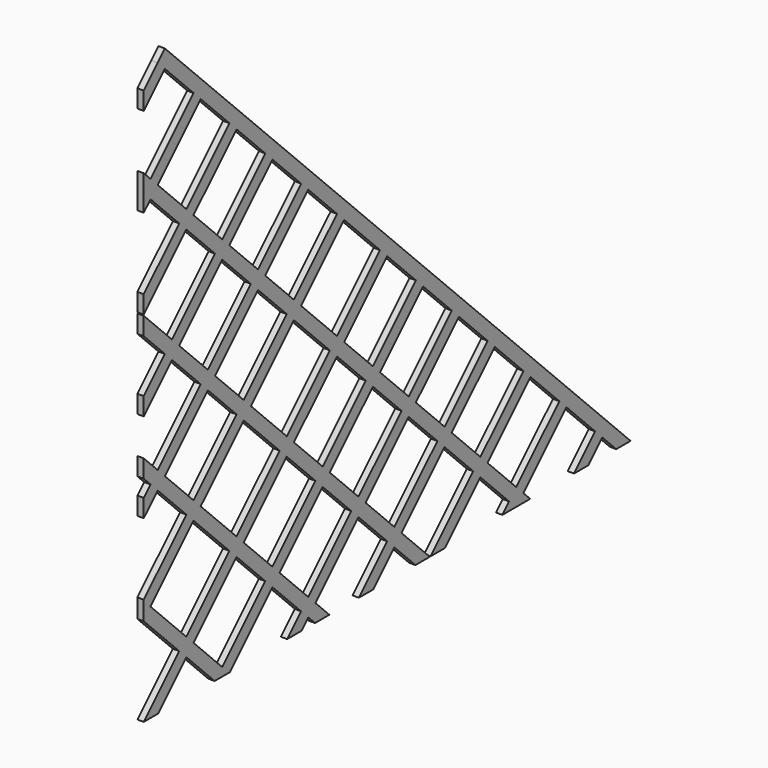
from build123d import *

# Parameters (mm, degrees)
F1_DEPTH = 3.175
F2_DEPTH = 3.175


with BuildPart() as f1:
    # F0 (on Right) → F1 (new body)
    with BuildSketch(Plane.YZ):
        Polygon((0, 278.3879397531), (0, 269.4076836321), (13.2060301234, 282.6137137555), (8.7159020629, 287.103841816), align=None)
        Polygon((13.2060301234, 282.6137137555), (31.1665423656, 264.6532015134), (35.6566704261, 269.1433295739), (17.696158184, 287.103841816), align=None)
        Polygon((8.7159020629, 287.103841816), (13.2060301234, 282.6137137555), (17.696158184, 287.103841816), (13.2060301234, 291.5939698766), align=None)
        Polygon((31.1665423656, 264.6532015134), (35.6566704261, 260.1630734528), (40.1467984866, 264.6532015134), (35.6566704261, 269.1433295739), align=None)
        Polygon((35.6566704261, 260.1630734528), (53.6171826682, 242.2025612107), (58.1073107288, 246.6926892712), (40.1467984866, 264.6532015134), align=None)
        Polygon((4.2257740024, 237.7124331502), (8.7159020629, 233.2223050896), (35.6566704261, 260.1630734528), (31.1665423656, 264.6532015134), align=None)
        Polygon((0, 232.9579510314), (4.2257740024, 228.7321770291), (8.7159020629, 233.2223050896), (4.2257740024, 237.7124331502), (0, 233.4866591478), align=None)
        Polygon((0, 232.9579510314), (0, 224.5064030267), (4.2257740024, 228.7321770291), align=None)
        Polygon((0, 241.9382071525), (0, 233.4866591478), (4.2257740024, 237.7124331502), align=None)
        Polygon((4.2257740024, 228.7321770291), (22.1862862445, 210.7716647869), (26.676414305, 215.2617928475), (8.7159020629, 233.2223050896), align=None)
        Polygon((53.6171826682, 242.2025612107), (58.1073107288, 237.7124331502), (62.5974387893, 242.2025612107), (58.1073107288, 246.6926892712), align=None)
        Polygon((58.1073107288, 237.7124331502), (76.0678229709, 219.751920908), (80.5579510314, 224.2420489686), (62.5974387893, 242.2025612107), align=None)
        Polygon((26.676414305, 215.2617928475), (31.1665423656, 210.7716647869), (58.1073107288, 237.7124331502), (53.6171826682, 242.2025612107), align=None)
        Polygon((22.1862862445, 210.7716647869), (26.676414305, 206.2815367264), (31.1665423656, 210.7716647869), (26.676414305, 215.2617928475), align=None)
        Polygon((0, 188.5853785425), (0, 179.6051224214), (26.676414305, 206.2815367264), (22.1862862445, 210.7716647869), align=None)
        Polygon((0, 170.096158184), (13.2060301234, 156.8901280605), (17.696158184, 161.3802561211), (0, 179.076414305), align=None)
        Polygon((26.676414305, 206.2815367264), (44.6369265472, 188.3210244843), (49.1270546077, 192.8111525448), (31.1665423656, 210.7716647869), align=None)
        Polygon((76.0678229709, 219.751920908), (80.5579510314, 215.2617928475), (85.048079092, 219.751920908), (80.5579510314, 224.2420489686), align=None)
        Polygon((49.1270546077, 192.8111525448), (53.6171826682, 188.3210244843), (80.5579510314, 215.2617928475), (76.0678229709, 219.751920908), align=None)
        Polygon((44.6369265472, 188.3210244843), (49.1270546077, 183.8308964237), (53.6171826682, 188.3210244843), (49.1270546077, 192.8111525448), align=None)
        Polygon((17.696158184, 161.3802561211), (22.1862862445, 156.8901280605), (49.1270546077, 183.8308964237), (44.6369265472, 188.3210244843), align=None)
        Polygon((13.2060301234, 156.8901280605), (17.696158184, 152.4), (22.1862862445, 156.8901280605), (17.696158184, 161.3802561211), align=None)
        Polygon((0, 143.6840979371), (0, 134.703841816), (17.696158184, 152.4), (13.2060301234, 156.8901280605), align=None)
        Polygon((80.5579510314, 215.2617928475), (98.5184632736, 197.3012806053), (103.0085913341, 201.7914086659), (85.048079092, 219.751920908), align=None)
        Polygon((49.1270546077, 183.8308964237), (67.0875668498, 165.8703841816), (71.5776949104, 170.3605122421), (53.6171826682, 188.3210244843), align=None)
        Polygon((17.696158184, 152.4), (35.6566704261, 134.4394877579), (40.1467984866, 138.9296158184), (22.1862862445, 156.8901280605), align=None)
        Polygon((0, 107.2343653365), (4.2257740024, 103.0085913341), (8.7159020629, 107.4987193947), (0, 116.2146214575), align=None)
        Polygon((0, 98.7828173318), (0, 89.8025612107), (8.7159020629, 98.5184632736), (4.2257740024, 103.0085913341), align=None)
        Polygon((4.2257740024, 103.0085913341), (8.7159020629, 98.5184632736), (13.2060301234, 103.0085913341), (8.7159020629, 107.4987193947), align=None)
        Polygon((8.7159020629, 107.4987193947), (13.2060301234, 103.0085913341), (40.1467984866, 129.9493596973), (35.6566704261, 134.4394877579), align=None)
        Polygon((35.6566704261, 134.4394877579), (40.1467984866, 129.9493596973), (44.6369265472, 134.4394877579), (40.1467984866, 138.9296158184), align=None)
        Polygon((40.1467984866, 138.9296158184), (44.6369265472, 134.4394877579), (71.5776949104, 161.3802561211), (67.0875668498, 165.8703841816), align=None)
        Polygon((67.0875668498, 165.8703841816), (71.5776949104, 161.3802561211), (76.0678229709, 165.8703841816), (71.5776949104, 170.3605122421), align=None)
        Polygon((71.5776949104, 170.3605122421), (76.0678229709, 165.8703841816), (103.0085913341, 192.8111525448), (98.5184632736, 197.3012806053), align=None)
        Polygon((98.5184632736, 197.3012806053), (103.0085913341, 192.8111525448), (107.4987193947, 197.3012806053), (103.0085913341, 201.7914086659), align=None)
        Polygon((103.0085913341, 192.8111525448), (120.9691035763, 174.8506403027), (125.4592316368, 179.3407683632), (107.4987193947, 197.3012806053), align=None)
        Polygon((71.5776949104, 161.3802561211), (89.5382071525, 143.4197438789), (94.0283352131, 147.9098719395), (76.0678229709, 165.8703841816), align=None)
        Polygon((40.1467984866, 129.9493596973), (58.1073107288, 111.9888474552), (62.5974387893, 116.4789755157), (44.6369265472, 134.4394877579), align=None)
        Polygon((8.7159020629, 98.5184632736), (26.676414305, 80.5579510314), (31.1665423656, 85.048079092), (13.2060301234, 103.0085913341), align=None)
        Polygon((0, 53.3528286101), (0, 44.9012806053), (4.2257740024, 49.1270546077), align=None)
        Polygon((0, 53.3528286101), (4.2257740024, 49.1270546077), (31.1665423656, 76.0678229709), (26.676414305, 80.5579510314), (0, 53.8815367264), align=None)
        Polygon((26.676414305, 80.5579510314), (31.1665423656, 76.0678229709), (35.6566704261, 80.5579510314), (31.1665423656, 85.048079092), align=None)
        Polygon((31.1665423656, 85.048079092), (35.6566704261, 80.5579510314), (62.5974387893, 107.4987193947), (58.1073107288, 111.9888474552), align=None)
        Polygon((58.1073107288, 111.9888474552), (62.5974387893, 107.4987193947), (67.0875668498, 111.9888474552), (62.5974387893, 116.4789755157), align=None)
        Polygon((62.5974387893, 116.4789755157), (67.0875668498, 111.9888474552), (94.0283352131, 138.9296158184), (89.5382071525, 143.4197438789), align=None)
        Polygon((89.5382071525, 143.4197438789), (94.0283352131, 138.9296158184), (98.5184632736, 143.4197438789), (94.0283352131, 147.9098719395), align=None)
        Polygon((94.0283352131, 138.9296158184), (116.4789755157, 116.4789755157), (120.9691035763, 120.9691035763), (98.5184632736, 143.4197438789), align=None)
        Polygon((120.9691035763, 120.9691035763), (116.4789755157, 116.4789755157), (120.9691035763, 111.9888474552), (125.4592316368, 116.4789755157), align=None)
        Polygon((116.4789755157, 116.4789755157), (89.5382071525, 89.5382071525), (94.0283352131, 85.048079092), (120.9691035763, 111.9888474552), align=None)
        Polygon((89.5382071525, 89.5382071525), (85.048079092, 85.048079092), (89.5382071525, 80.5579510314), (94.0283352131, 85.048079092), align=None)
        Polygon((85.048079092, 85.048079092), (58.1073107288, 58.1073107288), (62.5974387893, 53.6171826682), (89.5382071525, 80.5579510314), align=None)
        Polygon((58.1073107288, 58.1073107288), (53.6171826682, 53.6171826682), (58.1073107288, 49.1270546077), (62.5974387893, 53.6171826682), align=None)
        Polygon((53.6171826682, 53.6171826682), (26.676414305, 26.676414305), (31.1665423656, 22.1862862445), (58.1073107288, 49.1270546077), align=None)
        Polygon((26.676414305, 26.676414305), (22.1862862445, 22.1862862445), (26.676414305, 17.696158184), (31.1665423656, 22.1862862445), align=None)
        Polygon((22.1862862445, 22.1862862445), (0, 0), (8.9802561211, 0), (26.676414305, 17.696158184), align=None)
        Polygon((0, 44.372572489), (22.1862862445, 22.1862862445), (26.676414305, 26.676414305), (4.2257740024, 49.1270546077), (0, 44.9012806053), align=None)
        Polygon((31.1665423656, 76.0678229709), (53.6171826682, 53.6171826682), (58.1073107288, 58.1073107288), (35.6566704261, 80.5579510314), align=None)
        Polygon((62.5974387893, 107.4987193947), (85.048079092, 85.048079092), (89.5382071525, 89.5382071525), (67.0875668498, 111.9888474552), align=None)
        Polygon((125.4592316368, 116.4789755157), (120.9691035763, 111.9888474552), (138.9296158184, 94.0283352131), (143.4197438789, 98.5184632736), align=None)
        Polygon((143.4197438789, 98.5184632736), (138.9296158184, 94.0283352131), (143.4197438789, 89.5382071525), (147.9098719395, 94.0283352131), align=None)
        Polygon((147.9098719395, 94.0283352131), (143.4197438789, 89.5382071525), (161.3802561211, 71.5776949104), (165.8703841816, 76.0678229709), align=None)
        Polygon((165.8703841816, 76.0678229709), (161.3802561211, 71.5776949104), (165.8703841816, 67.0875668498), (170.3605122421, 71.5776949104), align=None)
        Polygon((170.3605122421, 71.5776949104), (165.8703841816, 67.0875668498), (183.8308964237, 49.1270546077), (188.3210244843, 53.6171826682), align=None)
        Polygon((188.3210244843, 53.6171826682), (183.8308964237, 49.1270546077), (188.3210244843, 44.6369265472), (192.8111525448, 49.1270546077), align=None)
        Polygon((192.8111525448, 49.1270546077), (188.3210244843, 44.6369265472), (206.2815367264, 26.676414305), (210.7716647869, 31.1665423656), align=None)
        Polygon((215.2617928475, 26.676414305), (210.7716647869, 22.1862862445), (228.7321770291, 4.2257740024), (233.2223050896, 8.7159020629), align=None)
        Polygon((210.7716647869, 31.1665423656), (206.2815367264, 26.676414305), (210.7716647869, 22.1862862445), (215.2617928475, 26.676414305), align=None)
        Polygon((233.2223050896, 8.7159020629), (228.7321770291, 4.2257740024), (232.9579510314, 0), (233.4866591478, 0), (237.7124331502, 4.2257740024), align=None)
        Polygon((237.7124331502, 4.2257740024), (233.4866591478, 0), (241.9382071525, 0), align=None)
        Polygon((228.7321770291, 4.2257740024), (224.5064030267, 0), (232.9579510314, 0), align=None)
        Polygon((206.2815367264, 26.676414305), (179.6051224214, 0), (188.5853785425, 0), (210.7716647869, 22.1862862445), align=None)
        Polygon((161.3802561211, 17.696158184), (156.8901280605, 13.2060301234), (170.096158184, 0), (179.076414305, 0), align=None)
        Polygon((183.8308964237, 49.1270546077), (156.8901280605, 22.1862862445), (161.3802561211, 17.696158184), (188.3210244843, 44.6369265472), align=None)
        Polygon((156.8901280605, 22.1862862445), (152.4, 17.696158184), (156.8901280605, 13.2060301234), (161.3802561211, 17.696158184), align=None)
        Polygon((152.4, 17.696158184), (134.703841816, 0), (143.6840979371, 0), (156.8901280605, 13.2060301234), align=None)
        Polygon((138.9296158184, 40.1467984866), (134.4394877579, 35.6566704261), (152.4, 17.696158184), (156.8901280605, 22.1862862445), align=None)
        Polygon((134.4394877579, 44.6369265472), (129.9493596973, 40.1467984866), (134.4394877579, 35.6566704261), (138.9296158184, 40.1467984866), align=None)
        Polygon((161.3802561211, 71.5776949104), (134.4394877579, 44.6369265472), (138.9296158184, 40.1467984866), (165.8703841816, 67.0875668498), align=None)
        Polygon((129.9493596973, 40.1467984866), (103.0085913341, 13.2060301234), (107.4987193947, 8.7159020629), (134.4394877579, 35.6566704261), align=None)
        Polygon((103.0085913341, 13.2060301234), (98.5184632736, 8.7159020629), (103.0085913341, 4.2257740024), (107.4987193947, 8.7159020629), align=None)
        Polygon((107.4987193947, 8.7159020629), (103.0085913341, 4.2257740024), (107.2343653365, 0), (116.2146214575, 0), align=None)
        Polygon((98.5184632736, 8.7159020629), (89.8025612107, 0), (98.7828173318, 0), (103.0085913341, 4.2257740024), align=None)
        Polygon((94.0283352131, 85.048079092), (89.5382071525, 80.5579510314), (107.4987193947, 62.5974387893), (111.9888474552, 67.0875668498), align=None)
        Polygon((138.9296158184, 94.0283352131), (111.9888474552, 67.0875668498), (116.4789755157, 62.5974387893), (143.4197438789, 89.5382071525), align=None)
        Polygon((111.9888474552, 67.0875668498), (107.4987193947, 62.5974387893), (111.9888474552, 58.1073107288), (116.4789755157, 62.5974387893), align=None)
        Polygon((116.4789755157, 62.5974387893), (111.9888474552, 58.1073107288), (129.9493596973, 40.1467984866), (134.4394877579, 44.6369265472), align=None)
        Polygon((107.4987193947, 62.5974387893), (80.5579510314, 35.6566704261), (85.048079092, 31.1665423656), (111.9888474552, 58.1073107288), align=None)
        Polygon((62.5974387893, 53.6171826682), (58.1073107288, 49.1270546077), (76.0678229709, 31.1665423656), (80.5579510314, 35.6566704261), align=None)
        Polygon((80.5579510314, 35.6566704261), (76.0678229709, 31.1665423656), (80.5579510314, 26.676414305), (85.048079092, 31.1665423656), align=None)
        Polygon((85.048079092, 31.1665423656), (80.5579510314, 26.676414305), (98.5184632736, 8.7159020629), (103.0085913341, 13.2060301234), align=None)
        Polygon((76.0678229709, 31.1665423656), (49.1270546077, 4.2257740024), (53.3528286101, 0), (53.8815367264, 0), (80.5579510314, 26.676414305), align=None)
        Polygon((49.1270546077, 4.2257740024), (44.9012806053, 0), (53.3528286101, 0), align=None)
        Polygon((31.1665423656, 22.1862862445), (26.676414305, 17.696158184), (44.372572489, 0), (44.9012806053, 0), (49.1270546077, 4.2257740024), align=None)
    extrude(amount=F1_DEPTH)

    # F0 (on Right) → F2 (join)
    with BuildSketch(Plane.YZ):
        Polygon((120.9691035763, 174.8506403027), (125.4592316368, 170.3605122421), (129.9493596973, 174.8506403027), (125.4592316368, 179.3407683632), align=None)
        Polygon((125.4592316368, 170.3605122421), (147.9098719395, 147.9098719395), (152.4, 152.4), (129.9493596973, 174.8506403027), align=None)
        Polygon((94.0283352131, 147.9098719395), (98.5184632736, 143.4197438789), (125.4592316368, 170.3605122421), (120.9691035763, 174.8506403027), align=None)
        Polygon((147.9098719395, 147.9098719395), (120.9691035763, 120.9691035763), (125.4592316368, 116.4789755157), (152.4, 143.4197438789), align=None)
        Polygon((152.4, 152.4), (147.9098719395, 147.9098719395), (152.4, 143.4197438789), (156.8901280605, 147.9098719395), align=None)
        Polygon((156.8901280605, 147.9098719395), (152.4, 143.4197438789), (170.3605122421, 125.4592316368), (174.8506403027, 129.9493596973), align=None)
        Polygon((174.8506403027, 129.9493596973), (170.3605122421, 125.4592316368), (174.8506403027, 120.9691035763), (179.3407683632, 125.4592316368), align=None)
        Polygon((170.3605122421, 125.4592316368), (143.4197438789, 98.5184632736), (147.9098719395, 94.0283352131), (174.8506403027, 120.9691035763), align=None)
        Polygon((179.3407683632, 125.4592316368), (174.8506403027, 120.9691035763), (192.8111525448, 103.0085913341), (197.3012806053, 107.4987193947), align=None)
        Polygon((197.3012806053, 107.4987193947), (192.8111525448, 103.0085913341), (197.3012806053, 98.5184632736), (201.7914086659, 103.0085913341), align=None)
        Polygon((192.8111525448, 103.0085913341), (165.8703841816, 76.0678229709), (170.3605122421, 71.5776949104), (197.3012806053, 98.5184632736), align=None)
        Polygon((201.7914086659, 103.0085913341), (197.3012806053, 98.5184632736), (215.2617928475, 80.5579510314), (219.751920908, 85.048079092), align=None)
        Polygon((219.751920908, 85.048079092), (215.2617928475, 80.5579510314), (219.751920908, 76.0678229709), (224.2420489686, 80.5579510314), align=None)
        Polygon((215.2617928475, 80.5579510314), (188.3210244843, 53.6171826682), (192.8111525448, 49.1270546077), (219.751920908, 76.0678229709), align=None)
        Polygon((224.2420489686, 80.5579510314), (219.751920908, 76.0678229709), (237.7124331502, 58.1073107288), (242.2025612107, 62.5974387893), align=None)
        Polygon((242.2025612107, 62.5974387893), (237.7124331502, 58.1073107288), (242.2025612107, 53.6171826682), (246.6926892712, 58.1073107288), align=None)
        Polygon((237.7124331502, 58.1073107288), (210.7716647869, 31.1665423656), (215.2617928475, 26.676414305), (242.2025612107, 53.6171826682), align=None)
        Polygon((246.6926892712, 58.1073107288), (242.2025612107, 53.6171826682), (260.1630734528, 35.6566704261), (264.6532015134, 40.1467984866), align=None)
        Polygon((264.6532015134, 40.1467984866), (260.1630734528, 35.6566704261), (264.6532015134, 31.1665423656), (269.1433295739, 35.6566704261), align=None)
        Polygon((260.1630734528, 35.6566704261), (233.2223050896, 8.7159020629), (237.7124331502, 4.2257740024), (264.6532015134, 31.1665423656), align=None)
        Polygon((269.1433295739, 35.6566704261), (264.6532015134, 31.1665423656), (282.6137137555, 13.2060301234), (287.103841816, 17.696158184), align=None)
        Polygon((287.103841816, 17.696158184), (282.6137137555, 13.2060301234), (287.103841816, 8.7159020629), (291.5939698766, 13.2060301234), align=None)
        Polygon((291.5939698766, 13.2060301234), (287.103841816, 8.7159020629), (295.8197438789, 0), (304.8, 0), align=None)
        Polygon((282.6137137555, 13.2060301234), (269.4076836321, 0), (278.3879397531, 0), (287.103841816, 8.7159020629), align=None)
    extrude(amount=F2_DEPTH)


solid = f1.part
